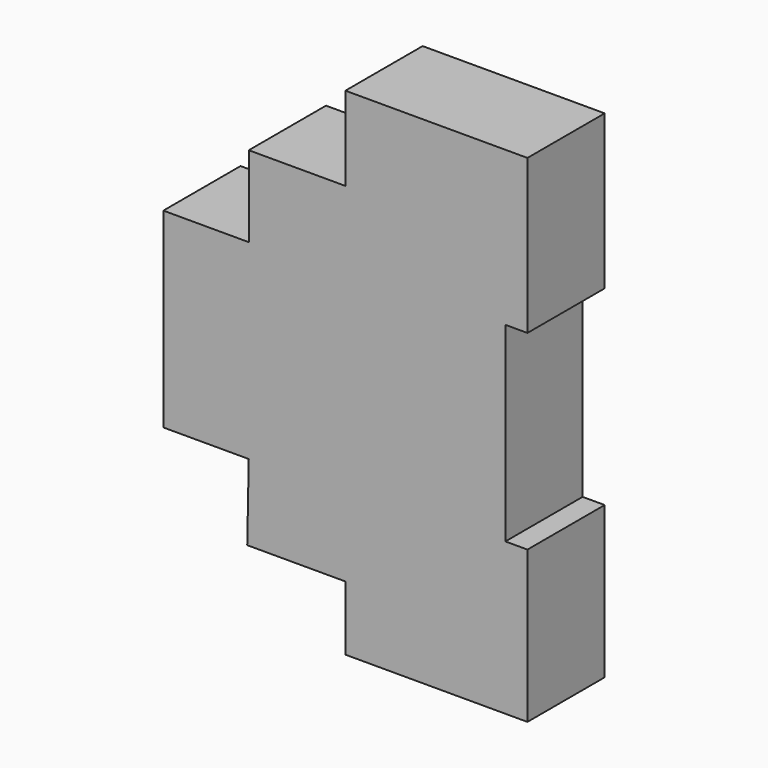
from build123d import *

# Parameters (mm, degrees)
F1_DEPTH  = 17.5
F3_DEPTH  = 2
F4_R      = 1.3844066796
F4_R_2    = 1.4118495886
F5_DEPTH  = 2
F6_R      = 1.09615194
F6_R_2    = 1.1626457349
F6_R_3    = 1.2756503746
F7_DEPTH  = 4
F9_DEPTH  = 42.8725
F8_W      = 4
F8_H      = 17.0664954185
F8_H_2    = 17.5
F10_DEPTH = 25
F11_R     = 1.09615194
F11_R_2   = 1.1626457349
F11_R_3   = 1.2756503746
F12_DEPTH = 5
F13_W     = 15
F13_H     = 32
F14_DEPTH = 1


with BuildPart() as f1:
    # F0 (on Front) → F1 (new body)
    with BuildSketch(Plane.XZ):
        Polygon((-29.036315158, 133.554469943), (-62.036315158, 133.554469943), (-62.036315158, 118.3553636074), (-79.5507803559, 118.3553636074), (-79.5507803559, 103.6831215024), (-95.036315158, 103.6831215024), (-95.036315158, 69.0787881613), (-79.5507803559, 69.0787881613), (-79.8276141286, 55.2370585501), (-62.036315158, 55.2370585501), (-62.036315158, 43.554469943), (-29.036315158, 43.554469943), (-29.036315158, 66.5872767568), (-34.9804013968, 66.5872767568), (-34.9804013968, 105.6209653616), (-29.036315158, 105.6209653616), align=None)
    extrude(amount=F1_DEPTH)

    # F2 (on face) → F3 (cut)
    with BuildSketch(Plane(origin=(-62.036315158, 0, 0), x_dir=(0, -1, 0), z_dir=(-1, 0, 0))):
        with BuildLine():
            Line((14.58732225, 128.2094269991), (3.0413551722, 128.2094269991))
            ThreePointArc((3.0413551722, 128.2094269991), (1.0878725443, 126.2559443712), (3.0413551722, 124.3024617434))
            Line((3.0413551722, 124.3024617434), (14.58732225, 124.3024617434))
            ThreePointArc((14.58732225, 124.3024617434), (16.5408048779, 126.2559443712), (14.58732225, 128.2094269991))
        make_face()
    extrude(amount=-F3_DEPTH, mode=Mode.SUBTRACT)

    # F4 (on face) → F5 (join)
    with BuildSketch(Plane(origin=(-60.036315158, 0, 0), x_dir=(0, -1, 0), z_dir=(-1, 0, 0))):
        with Locations((5.3467825055, 126.3230890036)):
            Circle(F4_R)
        with Locations((11.7130186409, 126.3377517462)):
            Circle(F4_R_2)
    extrude(amount=F5_DEPTH)

    # F6 (on face) → F7 (cut)
    with BuildSketch(Plane(origin=(-62.036315158, 0, 0), x_dir=(0, -1, 0), z_dir=(-1, 0, 0))):
        with BuildLine():
            Line((13.6235784739, 51.2298978865), (3.7623266689, 51.2298978865))
            ThreePointArc((3.7623266689, 51.2298978865), (2.1155080758, 49.5830792934), (3.7623266689, 47.9362607002))
            Line((3.7623266689, 47.9362607002), (13.6235784739, 47.9362607002))
            ThreePointArc((13.6235784739, 47.9362607002), (15.2703970671, 49.5830792934), (13.6235784739, 51.2298978865))
        make_face()
        with Locations((5.4540927522, 49.5830792934)):
            Circle(F6_R, mode=Mode.SUBTRACT)
        with Locations((8.8431918994, 49.6022440493)):
            Circle(F6_R_2, mode=Mode.SUBTRACT)
        with Locations((12.0892226696, 49.5083071291)):
            Circle(F6_R_3, mode=Mode.SUBTRACT)
    extrude(amount=-F7_DEPTH, mode=Mode.SUBTRACT)

    # F9 (add): a face of the model
    f9_faces = [f1.faces().sort_by_distance(p)[0] for p in [
        (-32.0083582774, -8.75, 105.6209653616),
    ]]
    extrude(f9_faces, amount=F9_DEPTH)

    # F8 (on face) → F10 (cut)
    with BuildSketch(Plane.XZ.offset(17.5)):
        with Locations((-31.036315158, 97.0877176523)):
            Rectangle(F8_W, F8_H)
        with Locations((-31.036315158, 79.804469943)):
            Rectangle(F8_W, F8_H_2)
    extrude(amount=-F10_DEPTH, mode=Mode.SUBTRACT)

    # F11 (on face) → F12 (cut)
    with BuildSketch(Plane(origin=(-80.8999922237, 0, 1.6179950544), x_dir=(0, -1, 0), z_dir=(-0.9998000612, 0, 0.019995942))):
        with BuildLine():
            Line((13.6235784739, 61.979509742), (3.7623266689, 61.979509742))
            ThreePointArc((3.7623266689, 61.979509742), (2.1155080758, 60.3326911488), (3.7623266689, 58.6858725557))
            Line((3.7623266689, 58.6858725557), (13.6235784739, 58.6858725557))
            ThreePointArc((13.6235784739, 58.6858725557), (15.2703970671, 60.3326911488), (13.6235784739, 61.979509742))
        make_face()
        with Locations((5.4540927522, 60.3326911488)):
            Circle(F11_R, mode=Mode.SUBTRACT)
        with Locations((8.8431918994, 60.3326911488)):
            Circle(F11_R_2, mode=Mode.SUBTRACT)
        with Locations((12.0892226696, 60.3326911488)):
            Circle(F11_R_3, mode=Mode.SUBTRACT)
    extrude(amount=-F12_DEPTH, mode=Mode.SUBTRACT)

    # F13 (on face) → F14 (cut)
    with BuildSketch(Plane(origin=(-95.036315158, 0, 0), x_dir=(0, -1, 0), z_dir=(-1, 0, 0))):
        with Locations((8.7, 86.4831215024)):
            Rectangle(F13_W, F13_H)
    extrude(amount=-F14_DEPTH, mode=Mode.SUBTRACT)


solid = f1.part
